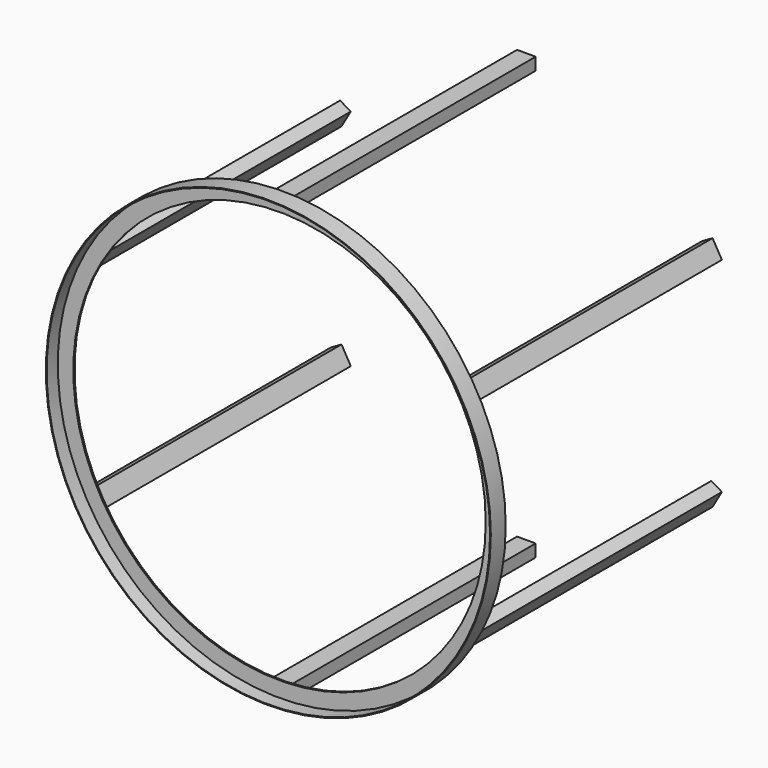
from build123d import *

# Parameters (mm, degrees)
F0_R     = 1822.45
F0_R_2   = 1816.1
F1_DEPTH = 152.4
F3_R     = 1816.1
F3_R_2   = 1689.1
F4_DEPTH = 12.7
F6_DEPTH = 2514.6
F7_COUNT = 6


with BuildPart() as f1:
    # F0 (on Front) → F1 (new body)
    with BuildSketch(Plane.XZ):
        Circle(F0_R)
        Circle(F0_R_2, mode=Mode.SUBTRACT)
    extrude(amount=F1_DEPTH)

    # F3 (on offset) → F4 (join)
    with BuildSketch(Plane.XZ.offset(25.4)):
        Circle(F3_R)
        Circle(F3_R_2, mode=Mode.SUBTRACT)
    extrude(amount=F4_DEPTH)


with BuildPart() as f6:
    # F5 (on face) → F6 (new body)
    with BuildSketch(Plane(origin=(0, -25.4, 0), x_dir=(-1, 0, 0), z_dir=(0, 1, 0))):
        Polygon((-76.2, -1805.595517), (0, -1805.595517), (76.2, -1805.595517), (76.2, -1703.995517), (-76.2, -1703.995517), align=None)
        Polygon((-66.675, -1713.520517), (66.675, -1713.520517), (66.675, -1796.070517), (0, -1796.070517), (-66.675, -1796.070517), align=None, mode=Mode.SUBTRACT)
    extrude(amount=F6_DEPTH)


with BuildPart() as f7_1:
    # F7: instance of F6
    add(f6.part.rotate(Axis((0, -25.4, 0), (0, -1, 0)), 1 * 360 / F7_COUNT))


with BuildPart() as f7_2:
    # F7: instance of F6
    add(f6.part.rotate(Axis((0, -25.4, 0), (0, -1, 0)), 2 * 360 / F7_COUNT))


with BuildPart() as f7_3:
    # F7: instance of F6
    add(f6.part.rotate(Axis((0, -25.4, 0), (0, -1, 0)), 3 * 360 / F7_COUNT))


with BuildPart() as f7_4:
    # F7: instance of F6
    add(f6.part.rotate(Axis((0, -25.4, 0), (0, -1, 0)), 4 * 360 / F7_COUNT))


with BuildPart() as f7_5:
    # F7: instance of F6
    add(f6.part.rotate(Axis((0, -25.4, 0), (0, -1, 0)), 5 * 360 / F7_COUNT))


solid = Compound([f1.part, f6.part, f7_1.part, f7_2.part, f7_3.part, f7_4.part, f7_5.part])
